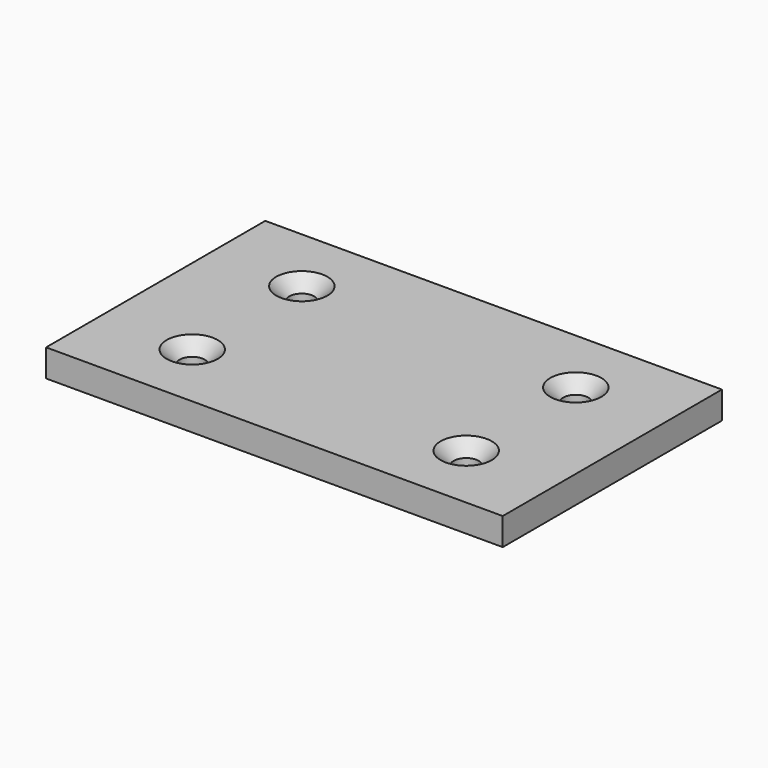
from build123d import *

# Parameters (mm, degrees)
F0_W           = 100
F0_H           = 60
F1_DEPTH       = 6
F3_D           = 5.5
F3_CSINK_D     = 11.2
F3_CSINK_ANGLE = 90


with BuildPart() as f1:
    # F0 (on Top) → F1 (new body)
    with BuildSketch(Plane.XY):
        Rectangle(F0_W, F0_H)
    extrude(amount=F1_DEPTH)

    # F3 (through all)
    with Locations(Plane.XY.offset(6)):
        with Locations((-30, -15), (-30, 15), (30, -15), (30, 15)):
            CounterSinkHole(F3_D / 2, F3_CSINK_D / 2, counter_sink_angle=F3_CSINK_ANGLE)


solid = f1.part
